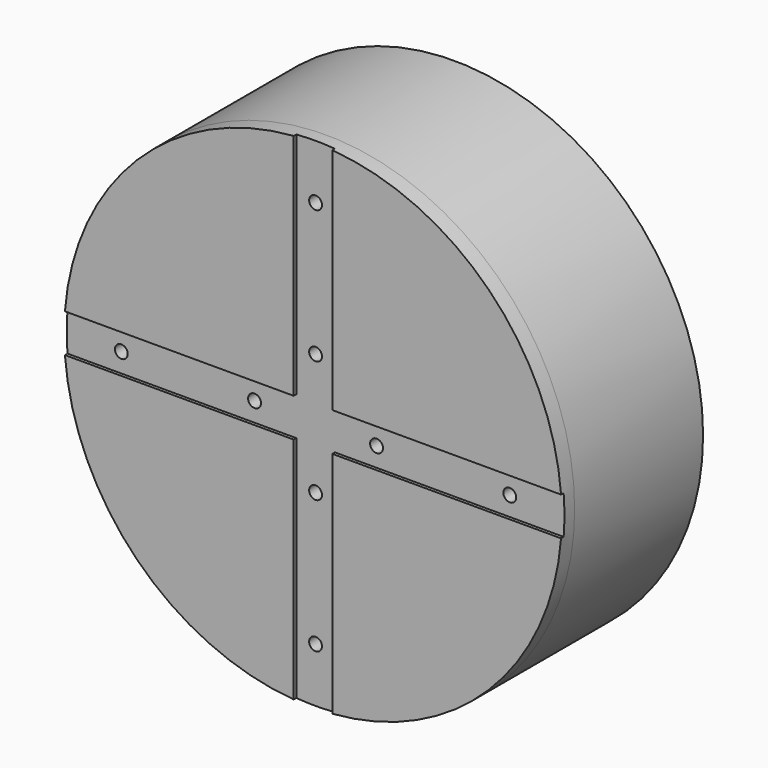
from build123d import *

# Parameters (mm, degrees)
F0_R     = 155
F1_DEPTH = 10
F2_R     = 155
F2_R_2   = 149
F3_DEPTH = 100
F5_DEPTH = 2
F6_R     = 4
F7_DEPTH = 108.001


with BuildPart() as f1:
    # F0 (on Front) → F1 (new body)
    with BuildSketch(Plane.XZ):
        Circle(F0_R)
    extrude(amount=F1_DEPTH)

    # F4 (on face) → F5 (cut)
    with BuildSketch(Plane.XZ.offset(10)):
        with BuildLine():
            Line((-12, 154.534786), (-12, 12))
            Line((-12, 12), (-154.534786, 12))
            ThreePointArc((-154.534786, 12), (-155, 0), (-154.534786, -12))
            Line((-154.534786, -12), (-12, -12))
            Line((-12, -12), (-12, -154.534786))
            ThreePointArc((-12, -154.534786), (0, -155), (12, -154.534786))
            Line((12, -154.534786), (12, -12))
            Line((12, -12), (154.534786, -12))
            ThreePointArc((154.534786, -12), (155, 0), (154.534786, 12))
            Line((154.534786, 12), (12, 12))
            Line((12, 12), (12, 154.534786))
            ThreePointArc((12, 154.534786), (0, 155), (-12, 154.534786))
        make_face()
    extrude(amount=-F5_DEPTH, mode=Mode.SUBTRACT)

    # F6 (on face) → F7 (cut, through all)
    with BuildSketch(Plane.XZ.offset(8)):
        with Locations((0, 121)):
            Circle(F6_R)
        with Locations((0, 38)):
            Circle(F6_R)
        with Locations((-121, 0)):
            Circle(F6_R)
        with Locations((-38, 0)):
            Circle(F6_R)
        with Locations((0, -121)):
            Circle(F6_R)
        with Locations((0, -38)):
            Circle(F6_R)
        with Locations((121, 0)):
            Circle(F6_R)
        with Locations((38, 0)):
            Circle(F6_R)
    extrude(amount=-F7_DEPTH, mode=Mode.SUBTRACT)


with BuildPart() as f3:
    # F2 (on face) → F3 (new body)
    with BuildSketch(Plane(origin=(0, 0, 0), x_dir=(-1, 0, 0), z_dir=(0, 1, 0))):
        Circle(F2_R)
        Circle(F2_R_2, mode=Mode.SUBTRACT)
    extrude(amount=F3_DEPTH)


solid = Compound([f1.part, f3.part])
